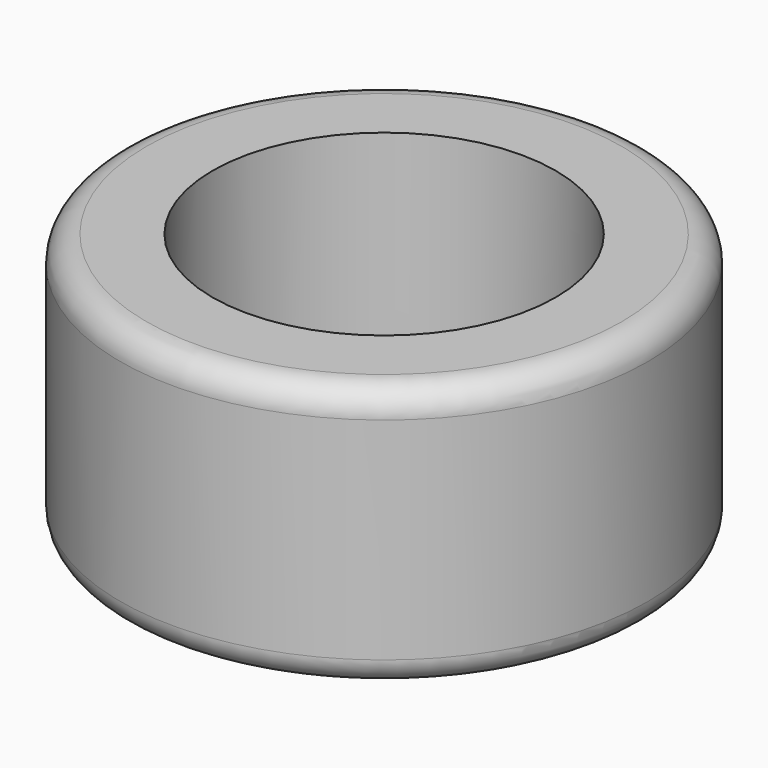
from build123d import *

# Parameters (mm, degrees)
F0_R     = 10
F0_R_2   = 6.5
F1_DEPTH = 10
F2_R     = 1
F3_R     = 1


with BuildPart() as f1:
    # F0 (on Top) → F1 (new body)
    with BuildSketch(Plane.XY):
        Circle(F0_R)
        Circle(F0_R_2, mode=Mode.SUBTRACT)
    extrude(amount=F1_DEPTH)

    # F2
    f2_edges = [f1.edges().sort_by_distance(p)[0] for p in [
        (-10, 0, 10),
    ]]
    fillet(f2_edges, radius=F2_R)

    # F3
    f3_edges = [f1.edges().sort_by_distance(p)[0] for p in [
        (-10, 0, 0),
    ]]
    fillet(f3_edges, radius=F3_R)


solid = f1.part
